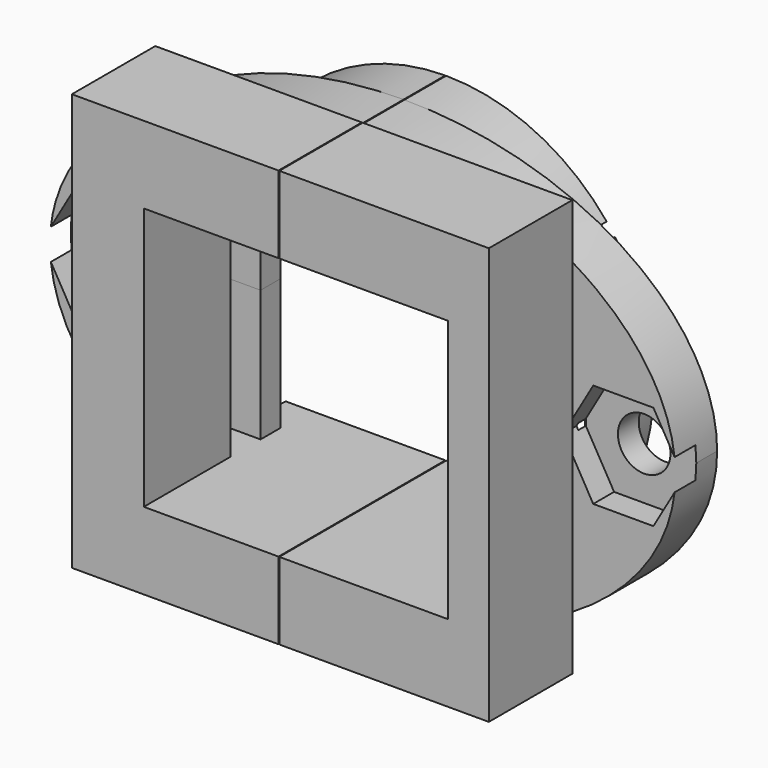
from build123d import *

# Parameters (mm, degrees)
F0_R           = 12.6365
F1_DEPTH       = 12.7
F3_START       = 3.175
F3_DEPTH       = 3.175
F4_R           = 1.6002
F5_DEPTH       = 12.701
F7_DEPTH       = 1.5875
F8_W           = 25.4
F8_H           = 6.35
F9_DEPTH       = 12.7
F9_DEPTH_BACK  = 12.7
F11_DEPTH      = 8.001
F11_DEPTH_BACK = 8.001
F12_W          = 0.0508
F12_H          = 50.8
F13_DEPTH      = 12.701
F14_W          = 2.032
F14_H          = 2.54
F15_DEPTH      = 3.048
F16_W          = 47.6237311959
F16_H          = 44.0488960594
F16_R          = 12.7
F17_DEPTH      = 25.4


with BuildPart() as f1:
    # F0 (on Front) → F1 (new body)
    with BuildSketch(Plane.XZ):
        Circle(F0_R)
    extrude(amount=F1_DEPTH)

    # F2 (on Front) → F3 (join)
    with BuildSketch(Plane.XZ.offset(F3_START)):
        with BuildLine():
            add(Edge.make_bspline(
                [(19.05, 0), (19.05, 21.8870600298), (-9.525, 10.9435300149), (-38.1, 0), (-9.525, -10.9435300149), (19.05, -21.8870600298), (19.05, 0)],
                knots=[0, 0, 0, 2.0943951024, 2.0943951024, 4.1887902048, 4.1887902048, 6.2831853072, 6.2831853072, 6.2831853072], degree=2, weights=[1, 0.5, 1, 0.5, 1, 0.5, 1]))
        make_face()
    extrude(amount=F3_DEPTH)

    # F4 (on Front) → F5 (cut, through all)
    with BuildSketch(Plane.XZ):
        with Locations((15.875, 0)):
            Circle(F4_R)
        with Locations((-15.875, 0)):
            Circle(F4_R)
    extrude(amount=F5_DEPTH, mode=Mode.SUBTRACT)

    # F6 (on face) → F7 (cut)
    with BuildSketch(Plane.XZ.offset(6.35)):
        Polygon((-14.0419128953, 3.175), (-17.7080871047, 3.175), (-19.5411742094, 0), (-17.7080871047, -3.175), (-14.0419128953, -3.175), (-12.2088257906, 0), align=None)
        Polygon((14.0419128953, -3.175), (17.7080871047, -3.175), (19.5411742094, 0), (17.7080871047, 3.175), (14.0419128953, 3.175), (12.2088257906, 0), align=None)
    extrude(amount=-F7_DEPTH, mode=Mode.SUBTRACT)

    # F8 (on Top) → F9 (join, two sides)
    with BuildSketch(Plane.XY) as f9_sk:
        with Locations((0.0635, -9.525)):
            Rectangle(F8_W, F8_H)
    extrude(amount=F9_DEPTH)
    extrude(f9_sk.sketch, amount=-F9_DEPTH_BACK)

    # F10 (on Top) → F11 (cut, two sides)
    with BuildSketch(Plane.XY) as f11_sk:
        Polygon((10.287, -2.286), (10.287, 0), (-10.287, 0), (-10.287, -2.286), (-8.255, -2.286), (-8.255, -3.81), (-10.287, -3.81), (-10.287, -6.096), (-8.255, -6.096), (-8.255, -19.1497133717), (10.287, -19.1497133717), (10.287, -9.144), (12.319, -9.144), (12.319, -6.096), (10.287, -6.096), (10.287, -5.334), (12.319, -5.334), (12.319, -2.286), align=None)
    extrude(amount=F11_DEPTH, mode=Mode.SUBTRACT)
    extrude(f11_sk.sketch, amount=-F11_DEPTH_BACK, mode=Mode.SUBTRACT)

    # F12 (on Front) → F13 (cut, through all)
    with BuildSketch(Plane.XZ):
        with Locations((-0.0254, 2.8806983769)):
            Rectangle(F12_W, F12_H)
    extrude(amount=F13_DEPTH, mode=Mode.SUBTRACT)

    # F14 (on face) → F15 (join)
    with BuildSketch(Plane(origin=(0, -5.334, 0), x_dir=(-1, 0, 0), z_dir=(0, 1, 0))):
        with Locations((-11.303, 6.731)):
            Rectangle(F14_W, F14_H)
        with Locations((-11.303, -6.731)):
            Rectangle(F14_W, F14_H)
    extrude(amount=F15_DEPTH)

    # F16 (on face) → F17 (cut)
    with BuildSketch(Plane(origin=(0, -3.175, 0), x_dir=(-1, 0, 0), z_dir=(0, 1, 0))):
        with Locations((3.184074536, -0.0276276842)):
            Rectangle(F16_W, F16_H)
        Circle(F16_R, mode=Mode.SUBTRACT)
    extrude(amount=F17_DEPTH, mode=Mode.SUBTRACT)


solid = f1.part
